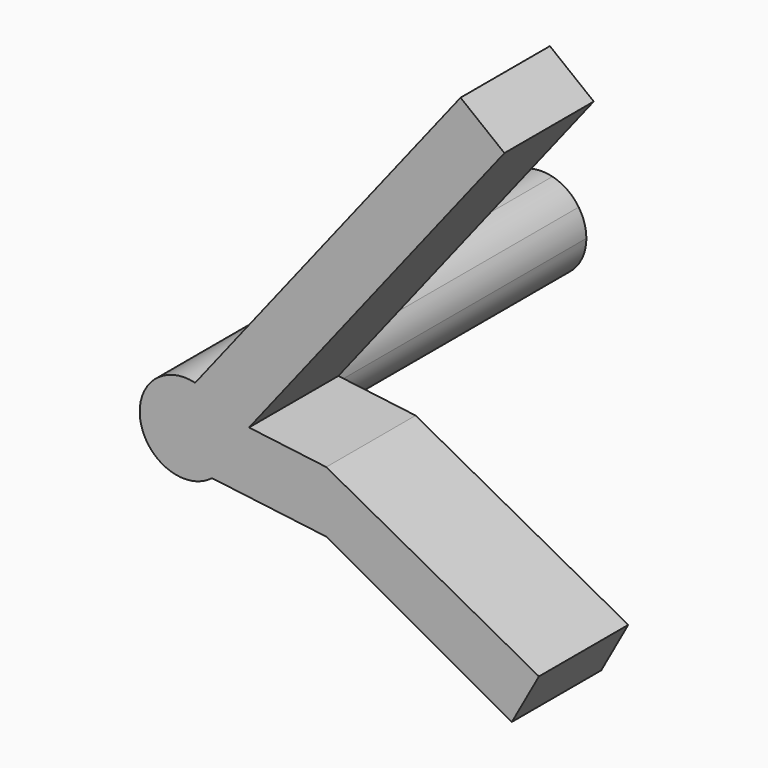
from build123d import *

# Parameters (mm, degrees)
F1_DEPTH = 10
F2_DEPTH = 10
F3_DEPTH = 30


with BuildPart() as f1:
    # F0 (on Front) → F1 (new body)
    with BuildSketch(Plane.XZ):
        with BuildLine():
            Line((-12.7058480853, 41.598128256), (-10.2291550788, 41.2866124053))
            ThreePointArc((-10.2291550788, 41.2866124053), (-9.1067668118, 42.6821747975), (-8.7058480853, 44.4276300352))
            ThreePointArc((-8.7058480853, 44.4276300352), (-8.8812998063, 45.5993085158), (-9.3922633163, 46.6682004935))
            Line((-9.3922633163, 46.6682004935), (-12.7058480853, 47.084979713))
            Line((-12.7058480853, 47.084979713), (-12.7058480853, 41.598128256))
        make_face()
        with BuildLine():
            ThreePointArc((-11.7422820262, 48.3098382277), (-16.6161256775, 43.5851757919), (-10.2291550788, 41.2866124053))
            Line((-10.2291550788, 41.2866124053), (-12.7058480853, 41.598128256))
            Line((-12.7058480853, 41.598128256), (-12.7058480853, 47.084979713))
            Line((-12.7058480853, 47.084979713), (-11.7422820262, 48.3098382277))
        make_face()
        with BuildLine():
            ThreePointArc((-9.3922633163, 46.6682004935), (-10.4151607617, 47.7067688834), (-11.7422820262, 48.3098382277))
            Line((-11.7422820262, 48.3098382277), (-12.7058480853, 47.084979713))
            Line((-12.7058480853, 47.084979713), (-9.3922633163, 46.6682004935))
        make_face()
    extrude(amount=F1_DEPTH)

    # F0 (on Front) → F2 (join)
    with BuildSketch(Plane.XZ):
        with BuildLine():
            Line((-10.2291550788, 41.2866124053), (0, 40))
            Line((0, 40), (16.6241960095, 30.8002115765))
            Line((16.6241960095, 30.8002115765), (19.0451929631, 35.175))
            Line((19.0451929631, 35.175), (0, 45.486851457))
            Line((0, 45.486851457), (-6.9169276979, 46.3568553736))
            Line((-6.9169276979, 46.3568553736), (-9.3922633163, 46.6682004935))
            ThreePointArc((-9.3922633163, 46.6682004935), (-8.8812998063, 45.5993085158), (-8.7058480853, 44.4276300352))
            ThreePointArc((-8.7058480853, 44.4276300352), (-9.1067668118, 42.6821747975), (-10.2291550788, 41.2866124053))
        make_face()
        with BuildLine():
            Line((12.0256917617, 78.5230289018), (-11.7422820262, 48.3098382277))
            ThreePointArc((-11.7422820262, 48.3098382277), (-10.4151607617, 47.7067688834), (-9.3922633163, 46.6682004935))
            Line((-9.3922633163, 46.6682004935), (-6.9169276979, 46.3568553736))
            Line((-6.9169276979, 46.3568553736), (15.9554479103, 75.4315864209))
            Line((15.9554479103, 75.4315864209), (12.0256917617, 78.5230289018))
        make_face()
    extrude(amount=F2_DEPTH)

    # F0 (on Front) → F3 (join)
    with BuildSketch(Plane.XZ):
        with BuildLine():
            Line((-12.7058480853, 41.598128256), (-10.2291550788, 41.2866124053))
            ThreePointArc((-10.2291550788, 41.2866124053), (-9.1067668118, 42.6821747975), (-8.7058480853, 44.4276300352))
            ThreePointArc((-8.7058480853, 44.4276300352), (-8.8812998063, 45.5993085158), (-9.3922633163, 46.6682004935))
            Line((-9.3922633163, 46.6682004935), (-12.7058480853, 47.084979713))
            Line((-12.7058480853, 47.084979713), (-12.7058480853, 41.598128256))
        make_face()
        with BuildLine():
            ThreePointArc((-9.3922633163, 46.6682004935), (-10.4151607617, 47.7067688834), (-11.7422820262, 48.3098382277))
            Line((-11.7422820262, 48.3098382277), (-12.7058480853, 47.084979713))
            Line((-12.7058480853, 47.084979713), (-9.3922633163, 46.6682004935))
        make_face()
        with BuildLine():
            ThreePointArc((-11.7422820262, 48.3098382277), (-16.6161256775, 43.5851757919), (-10.2291550788, 41.2866124053))
            Line((-10.2291550788, 41.2866124053), (-12.7058480853, 41.598128256))
            Line((-12.7058480853, 41.598128256), (-12.7058480853, 47.084979713))
            Line((-12.7058480853, 47.084979713), (-11.7422820262, 48.3098382277))
        make_face()
    extrude(amount=-F3_DEPTH)


solid = f1.part
